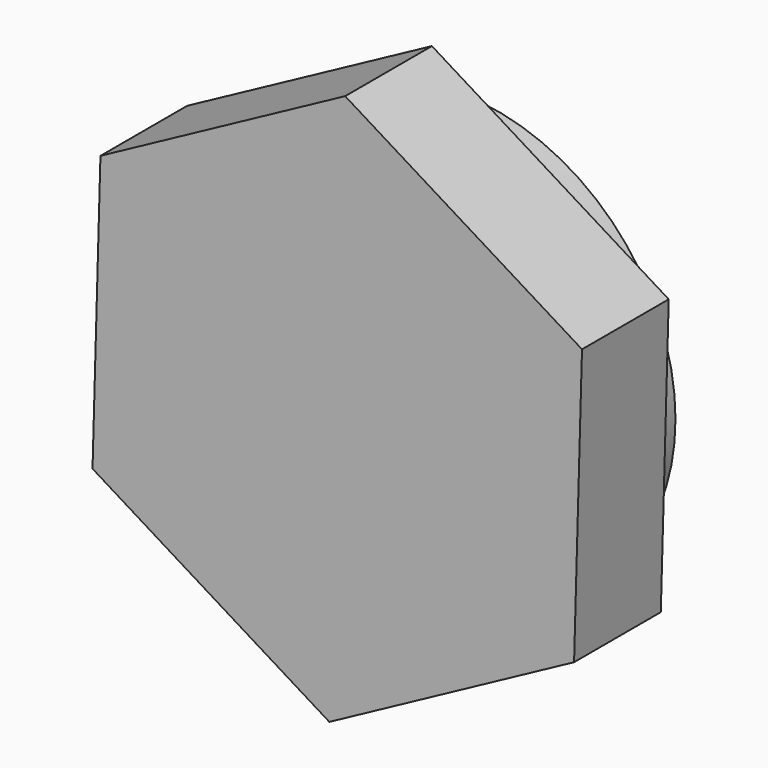
from build123d import *

# Parameters (mm, degrees)
F1_DEPTH = 2.5
F2_R     = 5
F3_DEPTH = 1


with BuildPart() as f1:
    # F0 (on Front) → F1 (new body)
    with BuildSketch(Plane.XZ):
        Polygon((5.64419, 3.047484), (0.182897, 6.411753), (-5.461293, 3.36427), (-5.64419, -3.047484), (-0.182897, -6.411753), (5.461293, -3.36427), align=None)
    extrude(amount=F1_DEPTH)

    # F2 (on Front) → F3 (join)
    with BuildSketch(Plane.XZ):
        Circle(F2_R)
    extrude(amount=-F3_DEPTH)


solid = f1.part
